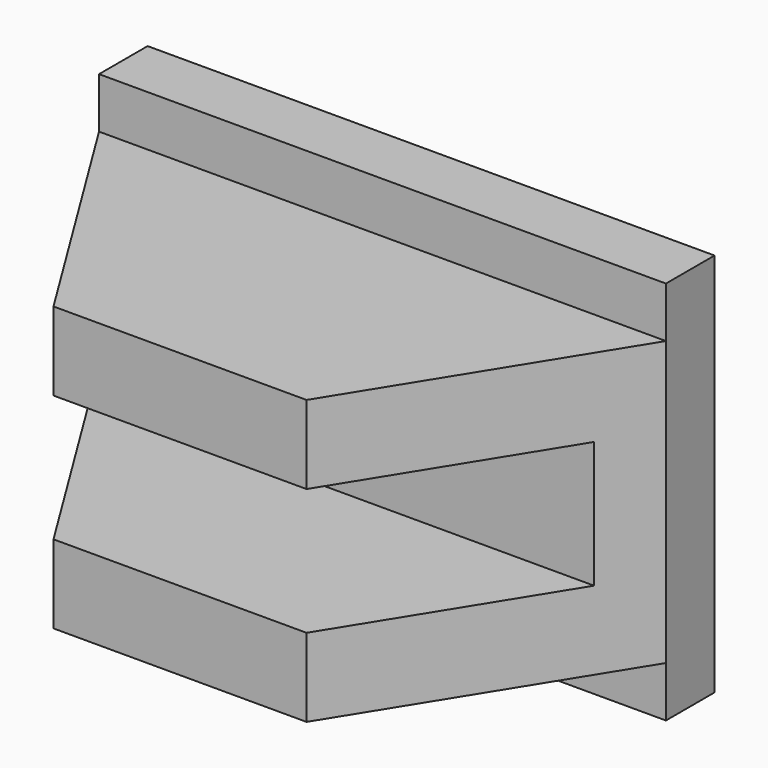
from build123d import *

# Parameters (mm, degrees)
F0_W     = 112
F0_H     = 76
F1_DEPTH = 12
F4_DEPTH = 56
F5_W     = 46.2375640869
F5_H     = 25
F6_DEPTH = 40


with BuildPart() as f1:
    # F0 (on Front) → F1 (new body)
    with BuildSketch(Plane.XZ):
        Rectangle(F0_W, F0_H)
        Rectangle(F0_W, F0_H)
    extrude(amount=F1_DEPTH)

    # F3 (on offset) → F4 (join)
    with BuildSketch(Plane(origin=(0, 0, -28), x_dir=(1, 0, 0), z_dir=(0, 0, -1))):
        Polygon((-25, 62), (-56, 12), (56, 12), (25, 62), align=None)
    extrude(amount=-F4_DEPTH)

    # F5 (on face) → F6 (cut)
    with BuildSketch(Plane.XZ.offset(62)):
        Polygon((-33.4565163767, -12.5), (-25, -12.5), (-25, 12.5), (-33.4565163767, 12.5), (-89.381583035, 12.5), (-89.381583035, -12.5), align=None)
        with Locations((48.1187820435, 0)):
            Rectangle(F5_W, F5_H)
        Polygon((-25, -12.5), (24.235787726, -12.5), (25, -12.5), (25, 12.5), (24.235787726, 12.5), (-25, 12.5), align=None)
    extrude(amount=-F6_DEPTH, mode=Mode.SUBTRACT)


solid = f1.part
